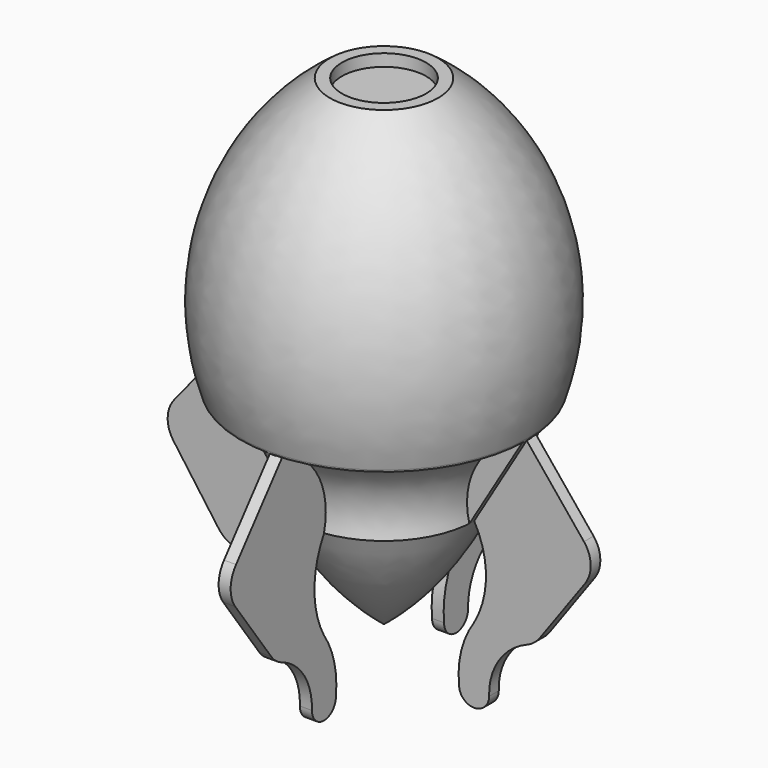
from build123d import *

# Parameters (mm, degrees)
F3_DEPTH = 1
F5_DEPTH = 2
F6_COUNT = 4


with BuildPart() as f1:
    # F0 (on Front) → F1 (revolve)
    with BuildSketch(Plane.XZ):
        with BuildLine():
            Line((-3.6356827617, -17.6941566169), (-18.6356827617, -17.6941566169))
            Line((-18.6356827617, -17.6941566169), (-18.6356827617, -37.6941566169))
            ThreePointArc((-18.6356827617, -37.6941566169), (-9.8655162237, -28.6467815204), (-3.6356827617, -17.6941566169))
        make_face()
        with BuildLine():
            Line((-11.6356827617, 40.3058433831), (-18.6356827617, 40.3058433831))
            Line((-18.6356827617, 40.3058433831), (-18.6356827617, -2.6941566169))
            Line((-18.6356827617, -2.6941566169), (5.2424542111, -2.6941566169))
            ThreePointArc((5.2424542111, -2.6941566169), (5.185968346, 22.2467117265), (-9.6356827617, 42.3058433831))
            Line((-9.6356827617, 42.3058433831), (-11.6356827617, 42.3058433831))
            Line((-11.6356827617, 42.3058433831), (-11.6356827617, 40.3058433831))
        make_face()
        with BuildLine():
            Line((5.2424542111, -2.6941566169), (-18.6356827617, -2.6941566169))
            Line((-18.6356827617, -2.6941566169), (-18.6356827617, -17.6941566169))
            Line((-18.6356827617, -17.6941566169), (-3.6356827617, -17.6941566169))
            ThreePointArc((-3.6356827617, -17.6941566169), (-2.3257712161, -8.5110990435), (5.1396662475, -3.0054966121))
            ThreePointArc((5.1396662475, -3.0054966121), (5.1913792265, -2.8499319305), (5.2424542111, -2.6941566169))
        make_face()
    revolve(axis=Axis((-18.6356827617, 0, 2.3058433831), (0, 0, -1)))

    # F2 (on Front) → F3 (join, symmetric)
    with BuildSketch(Plane.XZ):
        with BuildLine():
            Line((-42.4110317708, -3.0054966121), (-33.6356827617, -17.6941566169))
            ThreePointArc((-33.6356827617, -17.6941566169), (-34.9455943073, -8.5110990435), (-42.4110317708, -3.0054966121))
        make_face()
    extrude(amount=F3_DEPTH, both=True)

    # F4 (on Front) → F5 (join)
    with BuildSketch(Plane.XZ):
        with BuildLine():
            Line((-33.6285579444, -42.5604829009), (-31.1285579444, -42.5604829009))
            ThreePointArc((-31.1285579444, -42.5604829009), (-31.4926088604, -37.3389956299), (-33.6285579444, -32.5604829009))
            Line((-33.6285579444, -32.5604829009), (-33.6285579444, -42.5604829009))
        make_face()
        with BuildLine():
            ThreePointArc((-36.1285579444, -42.5604829009), (-33.6285579444, -45.0604829009), (-31.1285579444, -42.5604829009))
            Line((-31.1285579444, -42.5604829009), (-33.6285579444, -42.5604829009))
            Line((-33.6285579444, -42.5604829009), (-36.1285579444, -42.5604829009))
        make_face()
        with BuildLine():
            Line((-36.1285579444, -42.5604829009), (-33.6285579444, -42.5604829009))
            Line((-33.6285579444, -42.5604829009), (-33.6285579444, -32.5604829009))
            Line((-33.6285579444, -32.5604829009), (-43.1837882215, -32.5604829009))
            ThreePointArc((-43.1837882215, -32.5604829009), (-42.7934621812, -32.7829417117), (-42.3847432555, -32.9694656511))
            ThreePointArc((-42.3847432555, -32.9694656511), (-37.7479191336, -36.7808342841), (-36.1285579444, -42.5604829009))
        make_face()
        with BuildLine():
            Line((-43.1837882215, -32.5604829009), (-33.6285579444, -32.5604829009))
            ThreePointArc((-33.6285579444, -32.5604829009), (-35.603379857, -25.1282645023), (-33.6356827617, -17.6941566169))
            ThreePointArc((-33.6356827617, -17.6941566169), (-34.926748444, -8.5427545474), (-42.3394917441, -3.0231307194))
            Line((-42.3394917441, -3.0231307194), (-51.9075177165, -14.7777438296))
            ThreePointArc((-51.9075177165, -14.7777438296), (-53.027698591, -17.7906374211), (-52.0822644213, -20.8628495258))
            Line((-52.0822644213, -20.8628495258), (-44.5678423342, -31.2607684552))
            ThreePointArc((-44.5678423342, -31.2607684552), (-43.9380740122, -31.976924439), (-43.1837882215, -32.5604829009))
        make_face()
    extrude(amount=F5_DEPTH)


with BuildPart() as f6_1:
    # F6: instance of F1
    add(f1.part.rotate(Axis((-18.6356827617, 0, 2.3058433831), (0, 0, -1)), 1 * 360 / F6_COUNT))


with BuildPart() as f6_2:
    # F6: instance of F1
    add(f1.part.rotate(Axis((-18.6356827617, 0, 2.3058433831), (0, 0, -1)), 2 * 360 / F6_COUNT))


with BuildPart() as f6_3:
    # F6: instance of F1
    add(f1.part.rotate(Axis((-18.6356827617, 0, 2.3058433831), (0, 0, -1)), 3 * 360 / F6_COUNT))


solid = Compound([f1.part, f6_1.part, f6_2.part, f6_3.part])
